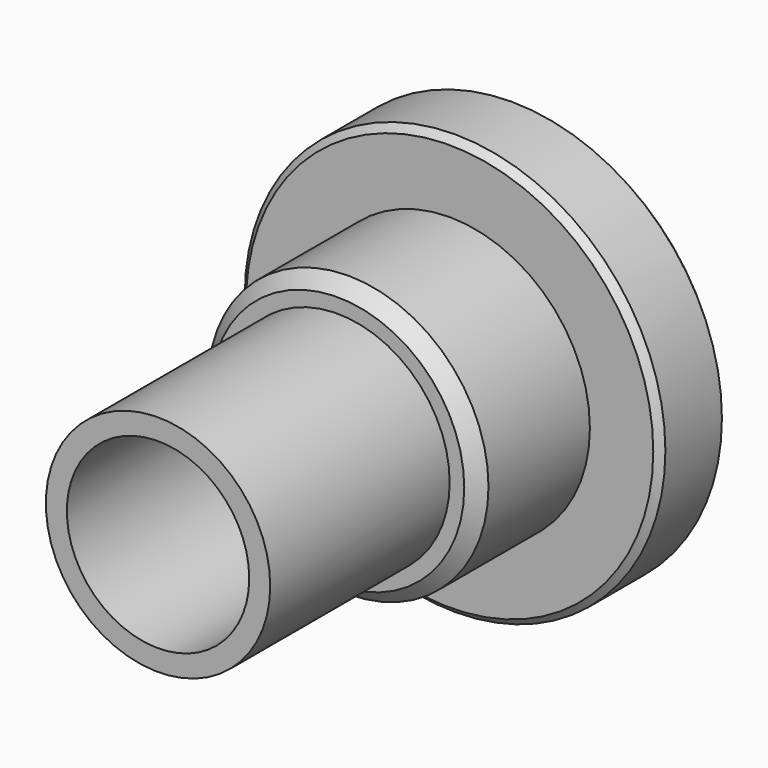
from build123d import *

# Parameters (mm, degrees)
F0_R     = 23.8125
F1_DEPTH = 9.525
F2_R     = 15.875
F3_DEPTH = 15.875
F4_R     = 12.7
F5_DEPTH = 25.4
F6_R     = 10.3251
F7_DEPTH = 50.801
F8_SIZE  = 1.524
F9_SIZE  = 0.762


with BuildPart() as f1:
    # F0 (on Front) → F1 (new body)
    with BuildSketch(Plane.XZ):
        Circle(F0_R)
    extrude(amount=F1_DEPTH)

    # F2 (on face) → F3 (join)
    with BuildSketch(Plane.XZ.offset(9.525)):
        Circle(F2_R)
    extrude(amount=F3_DEPTH)

    # F4 (on face) → F5 (join)
    with BuildSketch(Plane.XZ.offset(25.4)):
        Circle(F4_R)
    extrude(amount=F5_DEPTH)

    # F6 (on face) → F7 (cut, through all)
    with BuildSketch(Plane.XZ.offset(50.8)):
        Circle(F6_R)
    extrude(amount=-F7_DEPTH, mode=Mode.SUBTRACT)

    # F8
    f8_edges = [f1.edges().sort_by_distance(p)[0] for p in [
        (-15.875, -25.4, 0),
    ]]
    chamfer(f8_edges, length=F8_SIZE)

    # F9
    f9_edges = [f1.edges().sort_by_distance(p)[0] for p in [
        (-23.8125, -9.525, 0),
        (-23.8125, 0, 0),
        (-10.3251, 0, 0),
    ]]
    chamfer(f9_edges, length=F9_SIZE)


solid = f1.part
